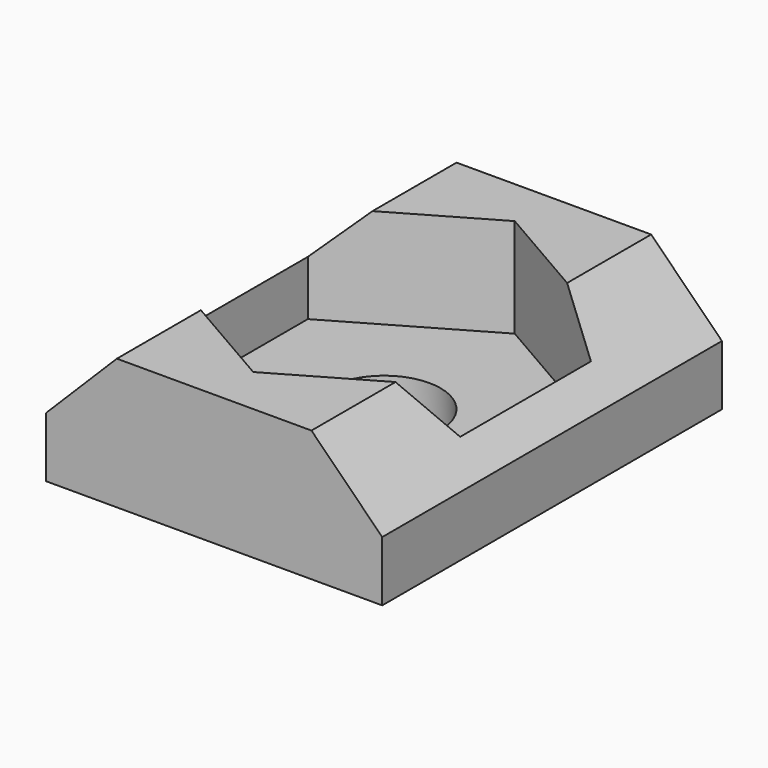
from build123d import *

# Parameters (mm, degrees)
F1_DEPTH = 6
F2_R     = 1.6
F3_DEPTH = 3.7
F5_SIZE2 = 2
F5_SIZE  = 2
F6_DEPTH = 2.8


with BuildPart() as f1:
    # F0 (on Front) → F1 (new body, symmetric)
    with BuildSketch(Plane.XZ):
        Polygon((-4.75, 0), (0, 0), (4.75, 0), (4.75, 3.7), (-4.75, 3.7), align=None)
    extrude(amount=F1_DEPTH, both=True)

    # F2 (on face) → F3 (cut, through all)
    with BuildSketch(Plane.XY.offset(3.7)):
        Circle(F2_R)
    extrude(amount=-F3_DEPTH, mode=Mode.SUBTRACT)

    # F5
    f5_edges = [f1.edges().sort_by_distance(p)[0] for p in [
        (-4.75, 0, 3.7),
        (4.75, 0, 3.7),
    ]]
    chamfer(f5_edges, length=F5_SIZE, length2=F5_SIZE2)

    # F4 (on face) → F6 (cut)
    with BuildSketch(Plane.XY.offset(3.7)):
        Polygon((4, -2.309401), (4, 2.309401), (0, 4.618802), (-4, 2.309401), (-4, -2.309401), (0, -4.618802), align=None)
    extrude(amount=-F6_DEPTH, mode=Mode.SUBTRACT)


solid = f1.part
